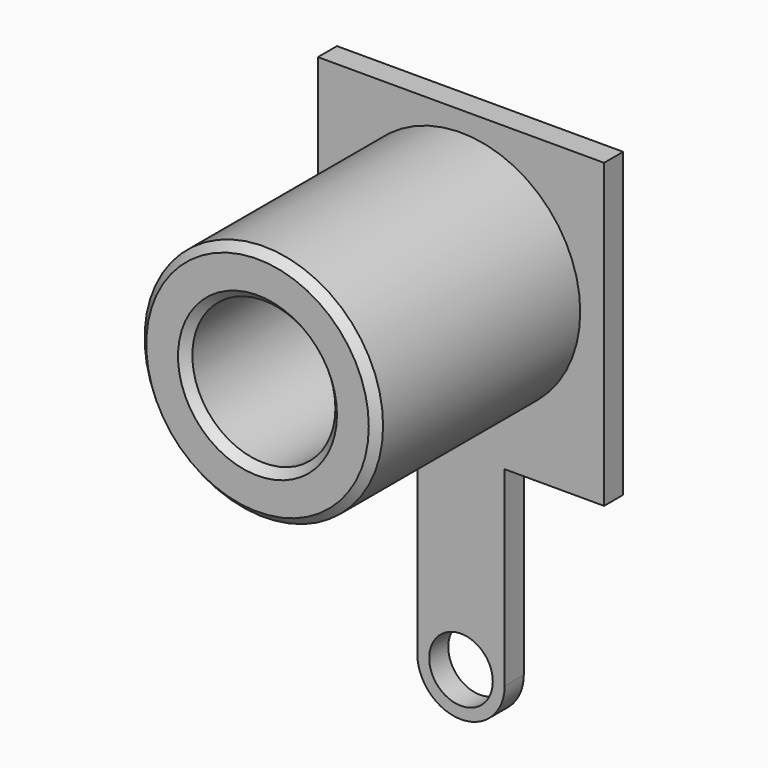
from build123d import *

# Parameters (mm, degrees)
SKETCH005_R     = 0.8
PAD001_DEPTH    = 0.6
SKETCH006_R     = 3
PAD002_DEPTH    = 6.4
SKETCH007_R     = 1.8
POCKET003_DEPTH = 9
CHAMFER_SIZE    = 0.2


with BuildPart() as part:
    # Sketch005 → Pad001 (new body)
    with BuildSketch(Plane.XZ):
        with BuildLine():
            Line((7.2, 7.6), (0, 7.6))
            Line((0, 7.6), (0, 0))
            Line((0, 0), (2.5, 0))
            Line((2.5, 0), (2.5, -4.8))
            ThreePointArc((2.5, -4.8), (3.6, -5.9), (4.7, -4.8))
            Line((4.7, -4.8), (4.7, 0))
            Line((4.7, 0), (7.2, 0))
            Line((7.2, 0), (7.2, 7.6))
        make_face()
        with Locations((3.6, -4.8)):
            Circle(SKETCH005_R, mode=Mode.SUBTRACT)
    extrude(amount=PAD001_DEPTH)

    # Sketch006 (on Face11 of Pad001) → Pad002 (join)
    with BuildSketch(Plane.XZ.offset(0.6)):
        with Locations((3.6, 4.1)):
            Circle(SKETCH006_R)
    extrude(amount=PAD002_DEPTH)

    # Sketch007 (on Face13 of Pad002) → Pocket003 (cut)
    with BuildSketch(Plane.XZ.offset(7)):
        with Locations((3.6, 4.1)):
            Circle(SKETCH007_R)
    extrude(amount=-POCKET003_DEPTH, mode=Mode.SUBTRACT)

    # Chamfer
    chamfer_edges = [part.edges().sort_by_distance(p)[0] for p in [
        (0.6, -7, 4.1),
        (1.8, -7, 4.1),
    ]]
    chamfer(chamfer_edges, length=CHAMFER_SIZE)


with BuildPart() as part_1:
    # Body placement: moved
    add(part.part.moved(Location((1.4, 2.6, 1.4))))


solid = part_1.part
